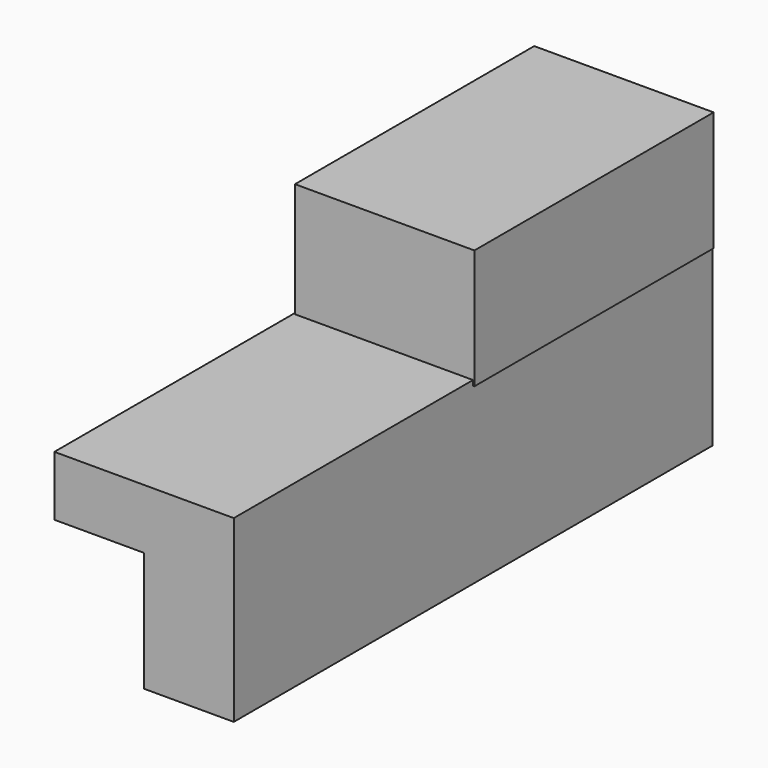
from build123d import *

# Parameters (mm, degrees)
F1_DEPTH = 127
F2_W     = 38.1
F2_H     = 25.4
F3_DEPTH = 63.5
F4_DEPTH = 63.5


with BuildPart() as f1:
    # F0 (on Front) → F1 (new body)
    with BuildSketch(Plane.XZ):
        Polygon((22.256231, -21.673279), (22.256231, -47.073279), (41.306231, -47.073279), (41.306231, -8.973279), (3.206231, -8.973279), (3.206231, -21.673279), align=None)
    extrude(amount=F1_DEPTH)


with BuildPart() as f3:
    # F2 (on Front) → F3 (new body)
    with BuildSketch(Plane.XZ):
        with Locations((22.547705, 2.644099)):
            Rectangle(F2_W, F2_H)
    extrude(amount=F3_DEPTH)


with BuildPart() as f4:
    # F2 (on Front) → F4 (new body)
    with BuildSketch(Plane.XZ):
        with Locations((22.547705, 2.644099)):
            Rectangle(F2_W, F2_H)
    extrude(amount=F4_DEPTH)


solid = Compound([f1.part, f3.part, f4.part])
